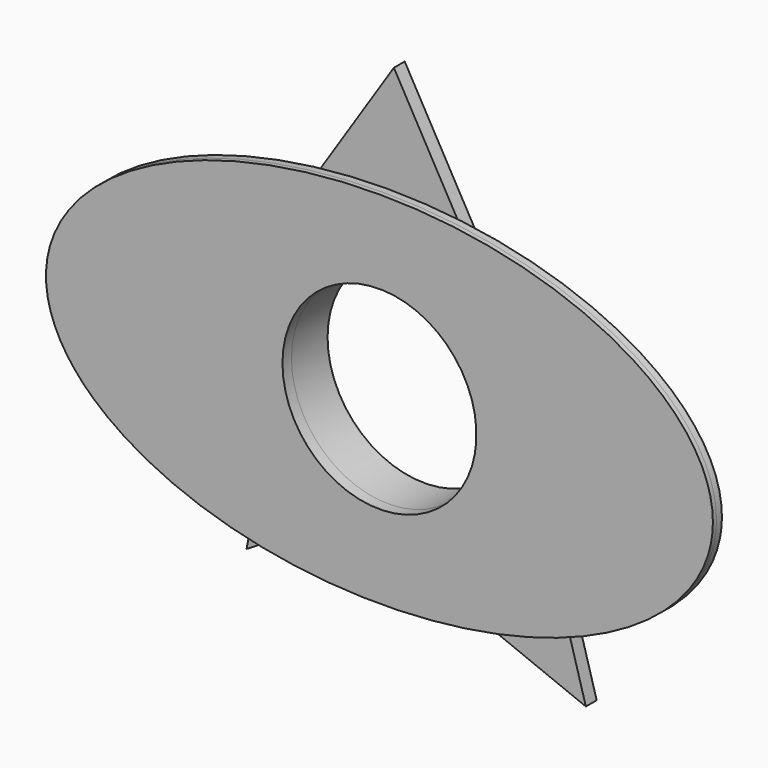
from build123d import *

# Parameters (mm, degrees)
F1_DEPTH  = 0.762
F3_DEPTH  = 0.762
F4_DEPTH  = 0.508
F6_DEPTH  = 1.524
F7_R      = 10.922
F8_DEPTH  = 26.67
F9_R      = 11.6145902158
F10_DEPTH = 5.08
F11_DEPTH = 25.4


with BuildPart() as f1:
    # F0 (on Front) → F1 (new body)
    with BuildSketch(Plane.XZ):
        with BuildLine():
            add(Edge.make_bspline(
                [(37.5557169318, 0), (37.5557169318, 35.1465910741), (-18.7778584659, 17.5732955371), (-75.1114338636, 0), (-18.7778584659, -17.5732955371), (37.5557169318, -35.1465910741), (37.5557169318, 0)],
                knots=[0, 0, 0, 2.0943951024, 2.0943951024, 4.1887902048, 4.1887902048, 6.2831853072, 6.2831853072, 6.2831853072], degree=2, weights=[1, 0.5, 1, 0.5, 1, 0.5, 1]))
        make_face()
    extrude(amount=F1_DEPTH)

    # F2 (on face) → F3 (join)
    with BuildSketch(Plane(origin=(0, 0, 0), x_dir=(-1, 0, 0), z_dir=(0, 1, 0))):
        with BuildLine():
            add(Edge.make_bspline(
                [(35.422988236, 0), (35.422988236, 31.5596123825), (-17.711494118, 15.7798061912), (-70.8459764719, 0), (-17.711494118, -15.7798061912), (35.422988236, -31.5596123825), (35.422988236, 0)],
                knots=[0, 0, 0, 2.0943951024, 2.0943951024, 4.1887902048, 4.1887902048, 6.2831853072, 6.2831853072, 6.2831853072], degree=2, weights=[1, 0.5, 1, 0.5, 1, 0.5, 1]))
        make_face()
    extrude(amount=F3_DEPTH)

    # F4 (add): a face of the model
    f4_faces = [f1.faces().sort_by_distance(p)[0] for p in [
        (0.1994472738, -0.762, 0),
    ]]
    extrude(f4_faces, amount=F4_DEPTH)

    # F5 (on face) → F6 (join)
    with BuildSketch(Plane(origin=(0, 0.762, 0), x_dir=(-1, 0, 0), z_dir=(0, 1, 0))):
        with BuildLine():
            Line((-11.402877979, 11.8091162294), (-19.090992638, -15.34826942))
            add(Edge.make_bspline(
                [(-19.090992638, -15.34826942), (-18.410805555, -15.5721256333), (-17.711494118, -15.7798061912), (-12.177428059, -17.4233055911), (-5.8757628878, -17.9685341706)],
                knots=[4.1343770065, 4.1343770065, 4.1343770065, 4.1887902048, 4.1887902048, 4.5839089239, 4.5839089239, 4.5839089239], degree=2, weights=[0.9746945921, 0.9870098058, 1, 0.9056723541, 0.8469355273]))
            Line((-5.8757628878, -17.9685341706), (4.5661213808, -13.7784499675))
            Line((4.5661213808, -13.7784499675), (10.52082492, -17.39874389))
            add(Edge.make_bspline(
                [(10.52082492, -17.39874389), (13.1955577452, -16.9708028062), (15.7062893013, -16.3319397402)],
                knots=[5.0337850375, 5.0337850375, 5.0337850375, 5.1777278333, 5.1777278333, 5.1777278333], degree=2, weights=[0.7593208765, 0.7526855897, 0.7507737891]))
            Line((15.7062893013, -16.3319397402), (9.4300195328, 17.563439373))
            add(Edge.make_bspline(
                [(9.4300195328, 17.563439373), (0.732109999, 18.7990726312), (-8.0550239327, 17.7436076418)],
                knots=[1.2789236158, 1.2789236158, 1.2789236158, 1.7643022688, 1.7643022688, 1.7643022688], degree=2, weights=[0.762241441, 0.7878826401, 0.8672324745]))
            Line((-8.0550239327, 17.7436076418), (-11.402877979, 11.8091162294))
        make_face()
        with BuildLine():
            Line((0, 32.0221483707), (-8.0550239327, 17.7436076418))
            add(Edge.make_bspline(
                [(9.4300195328, 17.563439373), (0.732109999, 18.7990726312), (-8.0550239327, 17.7436076418)],
                knots=[1.2789236158, 1.2789236158, 1.2789236158, 1.7643022688, 1.7643022688, 1.7643022688], degree=2, weights=[0.762241441, 0.7878826401, 0.8672324745]))
            Line((9.4300195328, 17.563439373), (0, 32.0221483707))
        make_face()
        with BuildLine():
            Line((-19.090992638, -15.34826942), (-21.6214787215, -24.2869220674))
            Line((-21.6214787215, -24.2869220674), (-5.8757628878, -17.9685341706))
            add(Edge.make_bspline(
                [(-19.090992638, -15.34826942), (-18.410805555, -15.5721256333), (-17.711494118, -15.7798061912), (-12.177428059, -17.4233055911), (-5.8757628878, -17.9685341706)],
                knots=[4.1343770065, 4.1343770065, 4.1343770065, 4.1887902048, 4.1887902048, 4.5839089239, 4.5839089239, 4.5839089239], degree=2, weights=[0.9746945921, 0.9870098058, 1, 0.9056723541, 0.8469355273]))
        make_face()
        with BuildLine():
            add(Edge.make_bspline(
                [(10.52082492, -17.39874389), (13.1955577452, -16.9708028062), (15.7062893013, -16.3319397402)],
                knots=[5.0337850375, 5.0337850375, 5.0337850375, 5.1777278333, 5.1777278333, 5.1777278333], degree=2, weights=[0.7593208765, 0.7526855897, 0.7507737891]))
            Line((10.52082492, -17.39874389), (16.5866948664, -21.0866238922))
            Line((16.5866948664, -21.0866238922), (15.7062893013, -16.3319397402))
        make_face()
    extrude(amount=F6_DEPTH)

    # F7 (on face) → F8 (cut)
    with BuildSketch(Plane(origin=(0, 2.286, 0), x_dir=(-1, 0, 0), z_dir=(0, 1, 0))):
        Circle(F7_R)
    extrude(amount=-F8_DEPTH, mode=Mode.SUBTRACT)

    # F9 (on Front) → F10 (join)
    with BuildSketch(Plane.XZ):
        Circle(F9_R)
    extrude(amount=-F10_DEPTH)

    # F11 (cut): a face of the model
    f11_faces = [f1.faces().sort_by_distance(p)[0] for p in [
        (0, 0, 0),
    ]]
    extrude(f11_faces, amount=-F11_DEPTH, mode=Mode.SUBTRACT)


solid = f1.part
